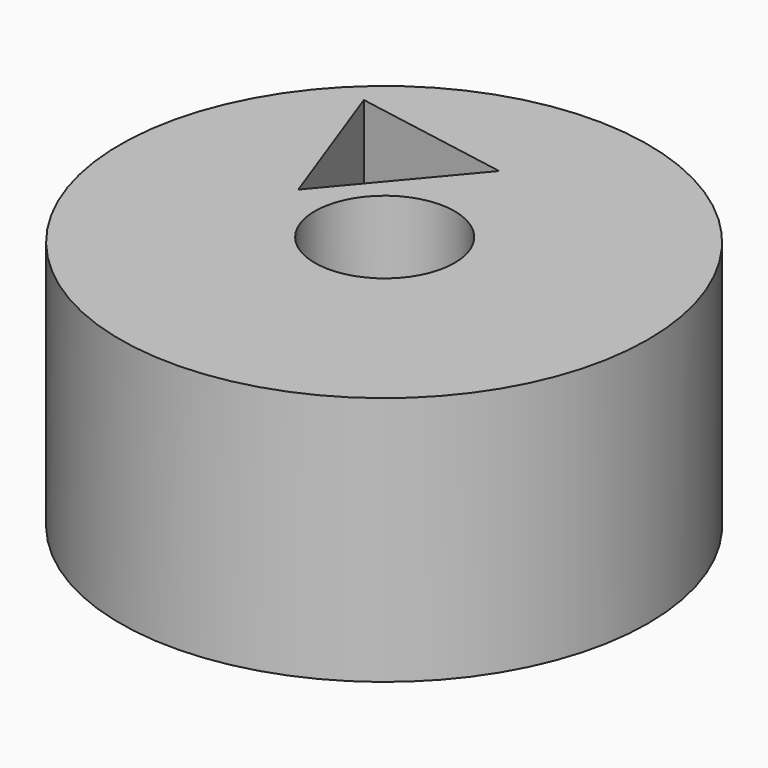
from build123d import *

# Parameters (mm, degrees)
F0_R     = 55.5167866595
F1_DEPTH = 26.2752361596
F3_DEPTH = 74.1270780563
F4_R     = 14.7193
F5_DEPTH = 121.8407154083


with BuildPart() as f1:
    # F0 (on Top) → F1 (new body, symmetric)
    with BuildSketch(Plane.XY):
        with Locations((1.0372549295, -1.4521926641)):
            Circle(F0_R)
    extrude(amount=F1_DEPTH, both=True)

    # F2 (on face) → F3 (cut)
    with BuildSketch(Plane.XY.offset(26.2752361596)):
        Polygon((-21.6351760827, 4.3129721936), (0, 30.081294477), (-33.1336097517, 35.9337454382), align=None)
    extrude(amount=-F3_DEPTH, mode=Mode.SUBTRACT)

    # F4 (on face) → F5 (cut)
    with BuildSketch(Plane.XY.offset(26.2752361596)):
        Circle(F4_R)
    extrude(amount=-F5_DEPTH, mode=Mode.SUBTRACT)


solid = f1.part
